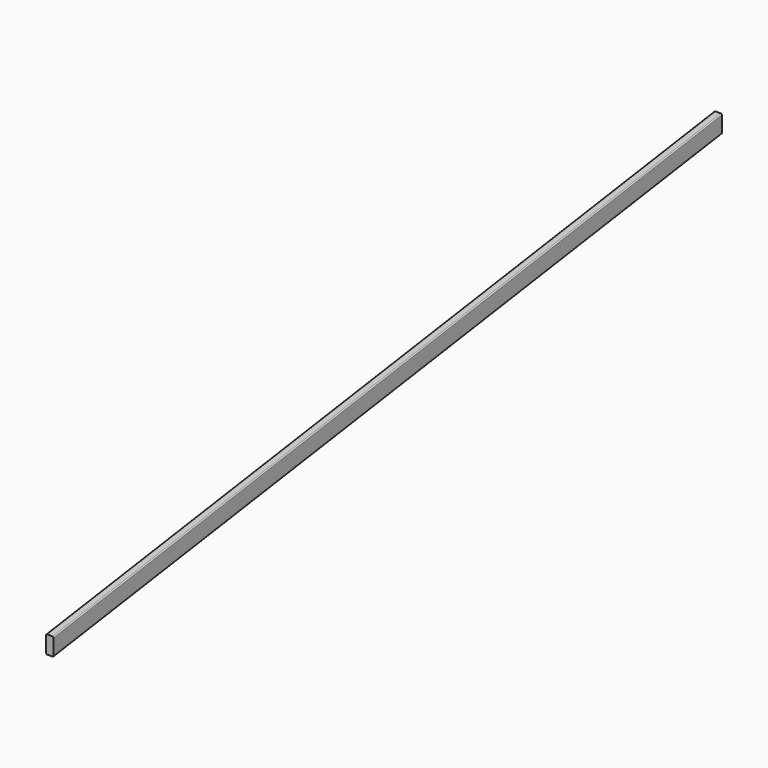
from build123d import *

# Parameters (mm, degrees)
F1_DEPTH = 19.05
F2_R     = 5.08


with BuildPart() as f1:
    # F0 (on Right) → F1 (new body, symmetric)
    with BuildSketch(Plane.YZ):
        Polygon((-11.369848, -0.924846), (-11.369848, 88.9), (-4234.634322, -521.864292), (-4234.634322, -611.689138), align=None)
    extrude(amount=F1_DEPTH, both=True)

    # F2
    f2_edges = [f1.edges().sort_by_distance(p)[0] for p in [
        (19.05, -2123.002085, -216.482146),
        (-19.05, -2123.002085, -216.482146),
        (19.05, -2123.002085, -306.306992),
        (-19.05, -2123.002085, -306.306992),
    ]]
    fillet(f2_edges, radius=F2_R)


solid = f1.part
